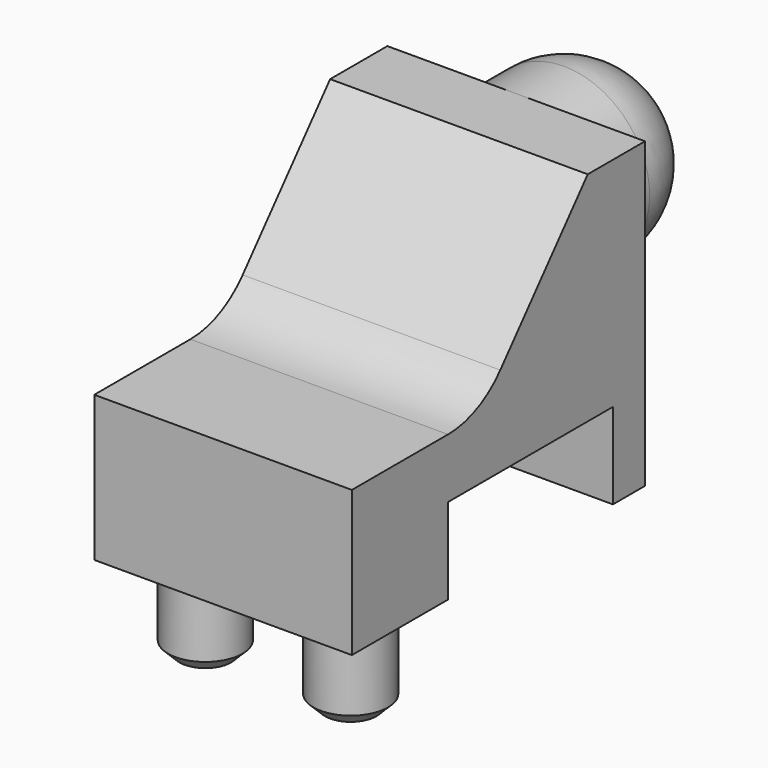
from build123d import *

# Parameters (mm, degrees)
PAD013_DEPTH    = 2.25
SKETCH022_R     = 0.65
PAD014_DEPTH    = 1.6
CHAMFER003_SIZE = 0.2


with BuildPart() as part:
    # Sketch020 → Pad013 (new body, symmetric)
    with BuildSketch(Plane.YZ):
        with BuildLine():
            Line((0, 0), (0, 5.3))
            Line((0, 5.3), (-1.25, 5.3))
            Line((-1.25, 5.3), (-3.159701, 3.065466))
            ThreePointArc((-4.3, 2.54), (-3.672227, 2.677686), (-3.159701, 3.065466))
            Line((-4.3, 2.54), (-6.4, 2.54))
            Line((-6.4, 2.54), (-6.4, 0))
            Line((-6.4, 0), (-4.3, 0))
            Line((-4.3, 0), (-4.3, 1.5))
            Line((-4.3, 1.5), (-0.7, 1.5))
            Line((-0.7, 1.5), (-0.7, 0))
            Line((-0.7, 0), (0, 0))
        make_face()
    extrude(amount=PAD013_DEPTH, both=True)

    # Sketch021 → Revolution (revolve)
    with BuildSketch(Plane.YZ):
        with BuildLine():
            Line((0, 3.8), (2.54, 3.8))
            ThreePointArc((2.54, 3.8), (2.10066, 4.86066), (1.04, 5.3))
            Line((1.04, 5.3), (0, 5.3))
            Line((0, 5.3), (0, 3.8))
        make_face()
    revolve(axis=Axis((0, 2.54, 3.8), (0, 1, 0)))

    # Sketch022 → Pad014 (join)
    with BuildSketch(Plane.XY):
        with Locations((-1.27, -5.2)):
            Circle(SKETCH022_R)
    pad014 = extrude(amount=-PAD014_DEPTH)

    # Mirrored003: Pad014 across Sketch022 V_Axis
    add(pad014.mirror(Plane(origin=(0, 0, 0), x_dir=(0, 0, 1), z_dir=(1, 0, 0))))

    # Chamfer003
    chamfer003_edges = [part.edges().sort_by_distance(p)[0] for p in [
        (1.92, -5.2, -1.6),
        (-1.92, -5.2, -1.6),
    ]]
    chamfer(chamfer003_edges, length=CHAMFER003_SIZE)


with BuildPart() as part_1:
    # Clone001 placement: moved
    add(part.part.moved(Location((91.5, -1, 0))))


solid = part_1.part
